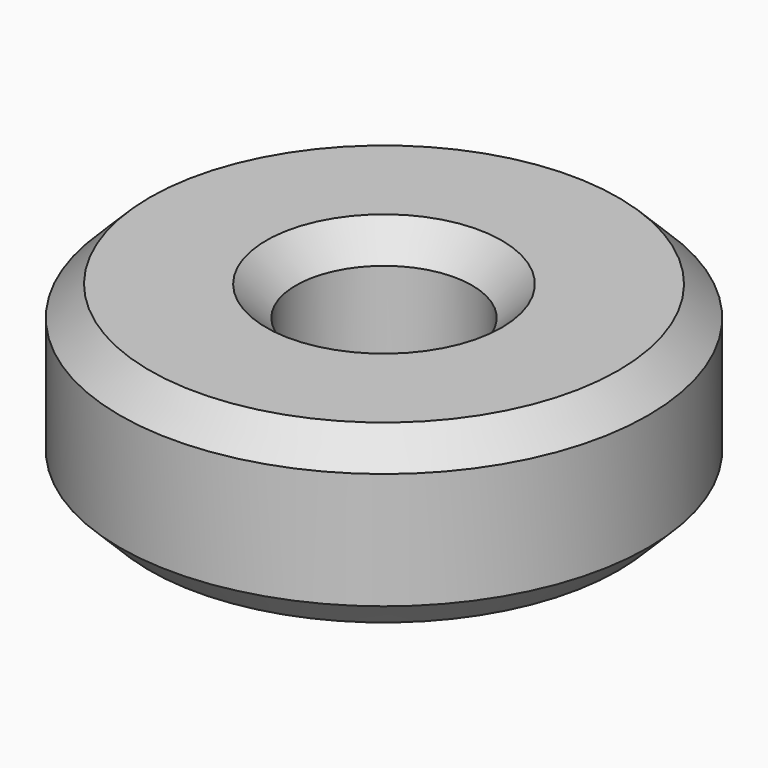
from build123d import *

# Parameters (mm, degrees)
F0_R     = 22.5
F0_R_2   = 7.5
F1_DEPTH = 15
F2_SIZE2 = 2.54
F2_SIZE  = 2.54


with BuildPart() as f1:
    # F0 (on Top) → F1 (new body)
    with BuildSketch(Plane.XY):
        Circle(F0_R)
        Circle(F0_R_2, mode=Mode.SUBTRACT)
    extrude(amount=F1_DEPTH)

    # F2
    f2_edges = [f1.edges().sort_by_distance(p)[0] for p in [
        (-22.5, 0, 15),
        (-22.5, 0, 0),
        (-7.5, 0, 15),
        (-7.5, 0, 0),
    ]]
    chamfer(f2_edges, length=F2_SIZE, length2=F2_SIZE2)


solid = f1.part
